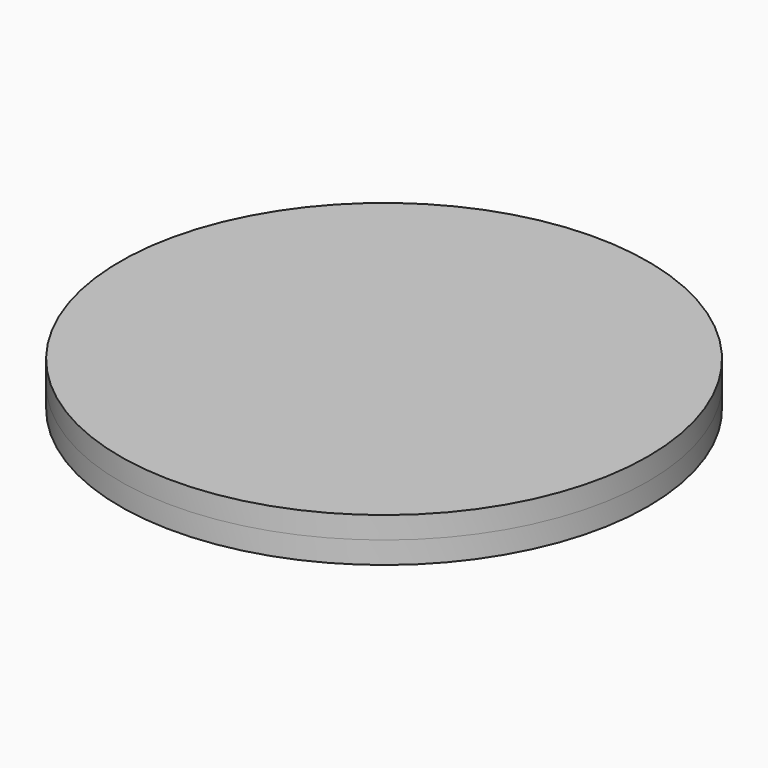
from build123d import *

# Parameters (mm, degrees)
F0_R     = 60
F1_DEPTH = 5
F2_R     = 60
F3_DEPTH = 5


with BuildPart() as f1:
    # F0 (on Top) → F1 (new body)
    with BuildSketch(Plane.XY):
        Circle(F0_R)
        Polygon((-10, 30), (0, 30), (10, 30), (10, 10), (30, 10), (30, 0), (30, -10), (10, -10), (10, -30), (0, -30), (-10, -30), (-10, -10), (-30, -10), (-30, 0), (-30, 10), (-10, 10), align=None, mode=Mode.SUBTRACT)
    extrude(amount=F1_DEPTH)


with BuildPart() as f3:
    # F2 (on face) → F3 (new body)
    with BuildSketch(Plane.XY.offset(5)):
        Circle(F2_R)
    extrude(amount=F3_DEPTH)


solid = Compound([f1.part, f3.part])
